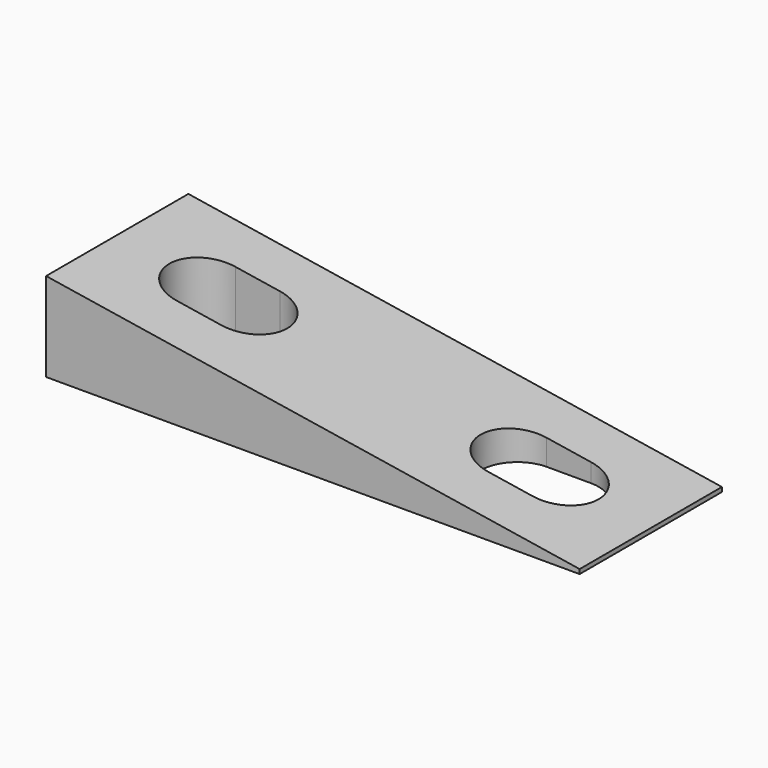
from build123d import *

# Parameters (mm, degrees)
PAD_DEPTH    = 4
POCKET_DEPTH = 4.001


with BuildPart() as part:
    # Sketch → Pad (new body, symmetric)
    with BuildSketch(Plane.XZ):
        Polygon((0, 0), (24, 0), (24, 0.2), (0, 4), align=None)
    extrude(amount=PAD_DEPTH, both=True)

    # Sketch001 (on Face1 of Pad) → Pocket (cut, through all)
    with BuildSketch(Plane(origin=(0, 0, 0), x_dir=(1, 0, 0), z_dir=(0, 0, -1))):
        with BuildLine():
            ThreePointArc((4, 1.65), (2.35, 0), (4, -1.65))
            Line((4, -1.65), (6, -1.65))
            ThreePointArc((6, -1.65), (7.65, 0), (6, 1.65))
            Line((4, 1.65), (6, 1.65))
        make_face()
        with BuildLine():
            ThreePointArc((20, -1.65), (21.65, 0), (20, 1.65))
            Line((20, 1.65), (18, 1.65))
            ThreePointArc((18, 1.65), (16.35, 0), (18, -1.65))
            Line((20, -1.65), (18, -1.65))
        make_face()
    extrude(amount=-POCKET_DEPTH, mode=Mode.SUBTRACT)


solid = part.part
